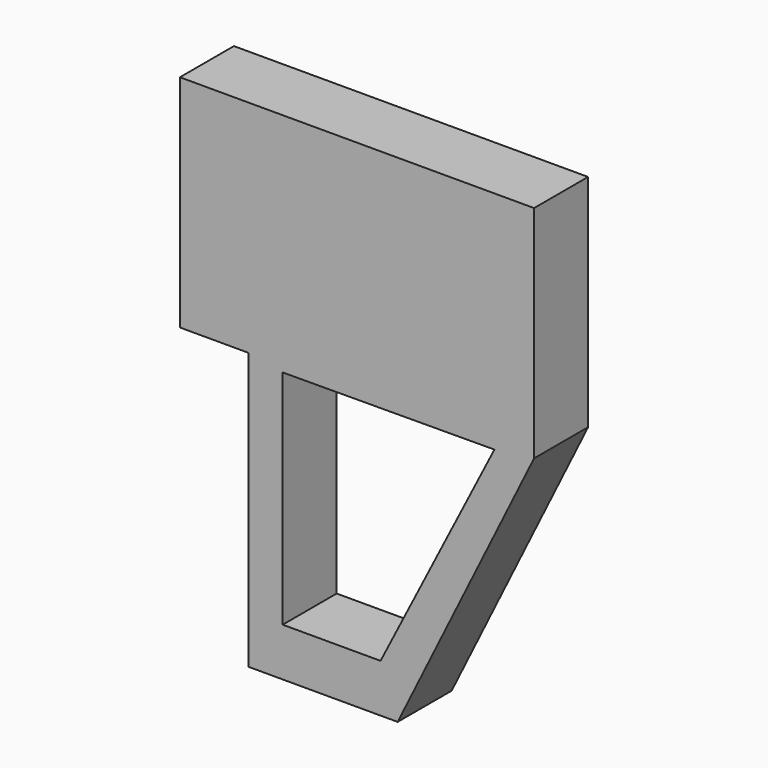
from build123d import *

# Parameters (mm, degrees)
F1_DEPTH = 20.716259
F3_DEPTH = 25.4


with BuildPart() as f1:
    # F0 (on Front) → F1 (new body)
    with BuildSketch(Plane.XZ):
        Polygon((54.361157, -33.818603), (54.361157, 33.818603), (-54.361157, 33.818603), (-54.361157, -33.818603), (-33.270366, -33.818603), align=None)
        Polygon((12.478308, -118.671253), (54.361157, -33.818603), (-33.270366, -33.818603), (-33.270366, -118.671253), align=None)
    extrude(amount=F1_DEPTH)

    # F2 (on Front) → F3 (cut)
    with BuildSketch(Plane.XZ):
        Polygon((42.183176, -35.409655), (-22.811562, -35.698522), (-22.811562, -103.870794), (7.230446, -103.870794), align=None)
    extrude(amount=F3_DEPTH, mode=Mode.SUBTRACT)


solid = f1.part
